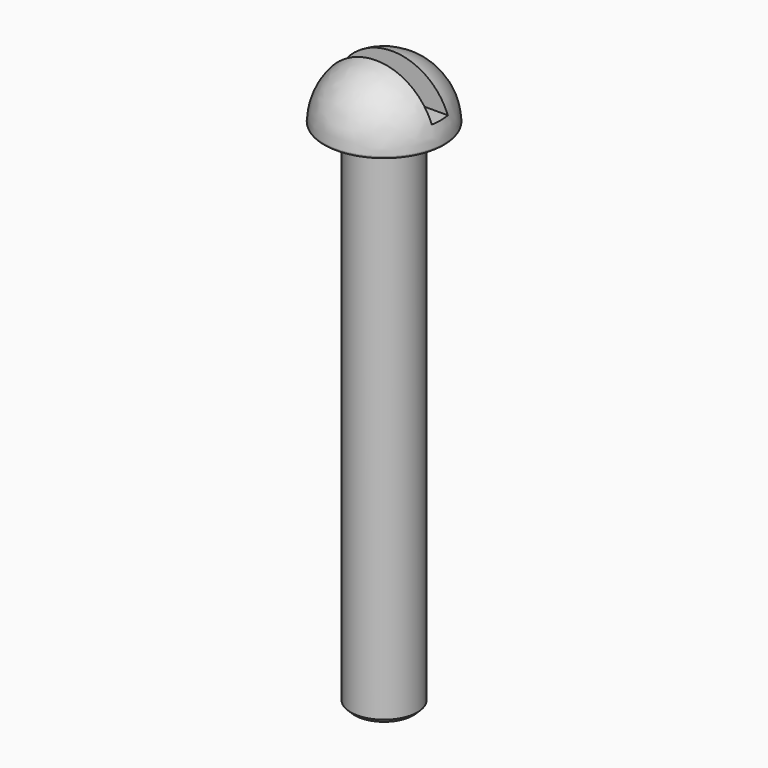
from build123d import *

# Parameters (mm, degrees)
BOX002_W          = 6
BOX002_H          = 1
BOX002_DEPTH      = 2
FILLET002_R       = 0.1
CYLINDER031_R     = 1.651
CYLINDER031_DEPTH = 25.4
CHAMFER002_SIZE   = 0.2


with BuildPart() as cube002:
    # Box002 → Box002 (new body)
    with BuildSketch(Plane(origin=(-3, -0.5, 58.2), x_dir=(1, 0, 0), z_dir=(0, 0, 1))):
        with Locations((3, 0.5)):
            Rectangle(BOX002_W, BOX002_H)
    extrude(amount=BOX002_DEPTH)


with BuildPart() as cut017:
    # Sphere002 → Sphere002 (revolve)
    with BuildSketch(Plane(origin=(0, 0, 57.15), x_dir=(1, 0, 0), z_dir=(0, -1, 0))):
        with BuildLine():
            ThreePointArc((3, 0), (2.12132, 2.12132), (0, 3))
            Line((0, 3), (0, 0))
            Line((0, 0), (3, 0))
        make_face()
    revolve(axis=Axis((0, 0, 57.15), (0, 0, 1)))

    # Fillet002
    fillet002_edges = [cut017.edges().sort_by_distance(p)[0] for p in [
        (-3, 0, 57.15),
    ]]
    fillet(fillet002_edges, radius=FILLET002_R)

    # Cut017: cut Cube002
    add(cube002.part, mode=Mode.SUBTRACT)


with BuildPart() as cut017_1:
    # Cut017 placement: moved
    add(cut017.part.moved(Location((0, 0, -31.75))))


with BuildPart() as f_6_32_1_0_screw:
    # Cylinder031 → Cylinder031 (new body)
    with BuildSketch(Plane.XY):
        Circle(CYLINDER031_R)
    extrude(amount=CYLINDER031_DEPTH)

    # Chamfer002
    chamfer002_edges = [f_6_32_1_0_screw.edges().sort_by_distance(p)[0] for p in [
        (-1.651, 0, 0),
    ]]
    chamfer(chamfer002_edges, length=CHAMFER002_SIZE)

    # Fusion014: union Cut017
    add(cut017_1.part)


solid = f_6_32_1_0_screw.part
